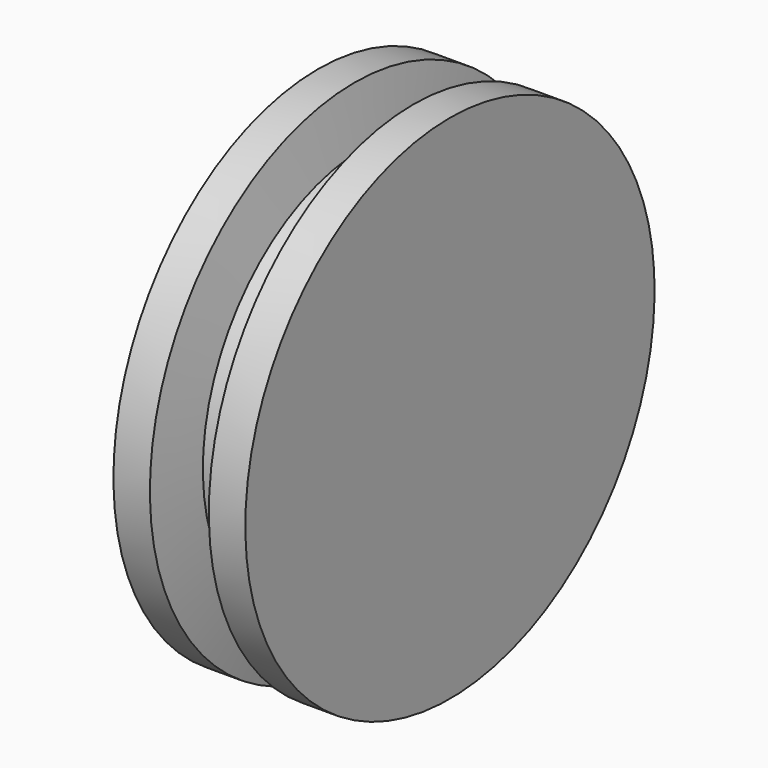
from build123d import *


with BuildPart() as f1:
    # F0 (on Front) → F1 (revolve)
    with BuildSketch(Plane.XZ):
        Polygon((-6.727435, 29.21), (-15.06181, 29.21), (-15.06181, 0), (-15.06181, -29.21), (-6.727435, -29.21), (-4.658001, -16.679739), (0, -16.679739), (4.658001, -16.679739), (6.727435, -29.21), (15.06181, -29.21), (15.06181, 0), (15.06181, 29.21), (6.727435, 29.21), (4.658001, 16.679739), (0, 16.679739), (-4.658001, 16.679739), align=None)
    revolve(axis=Axis((-10.894622, 0, -29.21), (1, 0, 0)))


solid = f1.part
